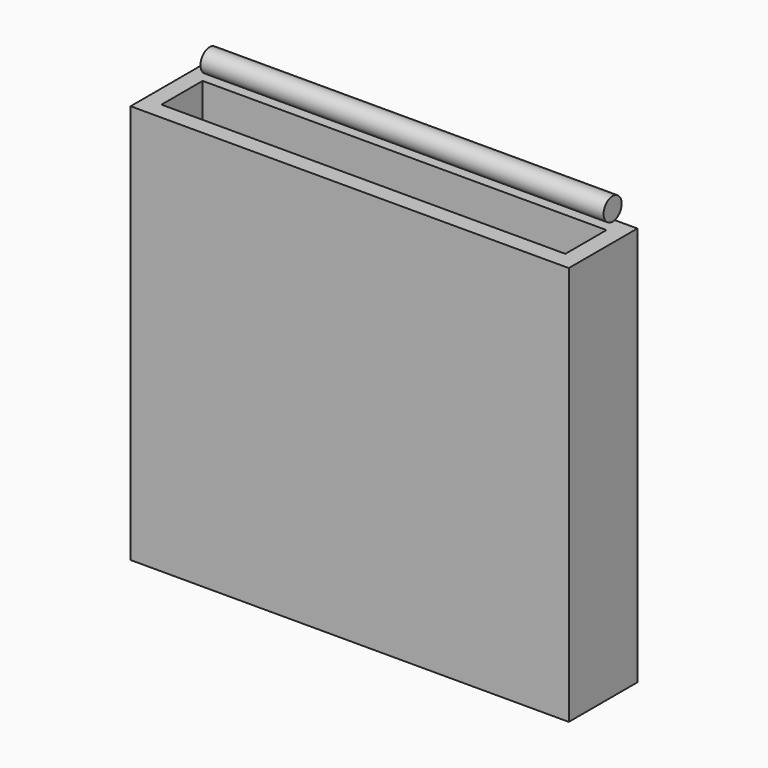
from build123d import *

# Parameters (mm, degrees)
F0_W          = 129.777685
F0_H          = 118.326712
F1_DEPTH      = 25.4
F2_T          = -5.08
F3_R          = 3.347722
F4_DEPTH      = 60.96
F4_DEPTH_BACK = 58.42


with BuildPart() as f1:
    # F0 (on Front) → F1 (new body)
    with BuildSketch(Plane.XZ):
        with Locations((1.761683, 1.761688)):
            Rectangle(F0_W, F0_H)
    extrude(amount=F1_DEPTH)

    # F2
    f2_openings = [f1.faces().sort_by_distance(p)[0] for p in [
        (1.761682, -12.7, 60.925044),
    ]]
    offset(amount=F2_T, openings=f2_openings)


with BuildPart() as f4:
    # F3 (on Right) → F4 (new body, two sides)
    with BuildSketch(Plane.YZ) as f4_sk:
        with Locations((-2.055303, 65.035652)):
            Circle(F3_R)
    extrude(amount=F4_DEPTH)
    extrude(f4_sk.sketch, amount=-F4_DEPTH_BACK)


solid = Compound([f1.part, f4.part])
